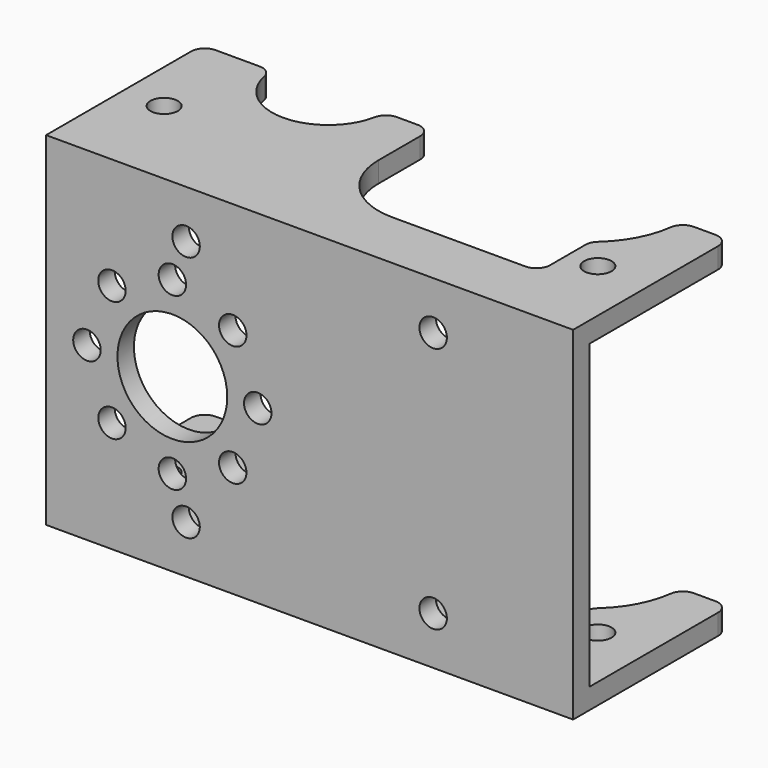
from build123d import *

# Parameters (mm, degrees)
F0_W     = 38.4
F0_H     = 28.4
F0_R     = 1
F0_R_2   = 4.1
F1_DEPTH = 1.5
F2_W     = 38.4
F2_H     = 1.5
F3_DEPTH = 22
F6_W     = 38.4
F6_H     = 14.2
F7_DEPTH = 25.001
F8_R     = 1
F8_R_2   = 4
F9_DEPTH = 1.5
F10_R    = 1


with BuildPart() as f1:
    # F0 (on Top) → F1 (new body)
    with BuildSketch(Plane.XY):
        Rectangle(F0_W, F0_H)
        with Locations((-16.2, -7.2)):
            Circle(F0_R, mode=Mode.SUBTRACT)
        with Locations((15.4, -7.2)):
            Circle(F0_R, mode=Mode.SUBTRACT)
        with Locations((-10, 0)):
            Circle(F0_R_2, mode=Mode.SUBTRACT)
        with Locations((-16.2, 7.2)):
            Circle(F0_R, mode=Mode.SUBTRACT)
        with BuildLine():
            ThreePointArc((-2.5, 4.8), (-1.0355339059, 8.3355339059), (2.5, 9.8))
            Line((2.5, 9.8), (12.2, 9.8))
            ThreePointArc((12.2, 9.8), (12.9071067812, 9.5071067812), (13.2, 8.8))
            Line((13.2, 8.8), (13.2, 5.5901699437))
            ThreePointArc((13.2, 5.5901699437), (13.2871290708, 5.1819216533), (13.5333333333, 4.8448139512))
            ThreePointArc((13.5333333333, 4.8448139512), (15.7, 0), (13.5333333333, -4.8448139512))
            ThreePointArc((13.5333333333, -4.8448139512), (13.2871290708, -5.1819216533), (13.2, -5.5901699437))
            Line((13.2, -5.5901699437), (13.2, -8.8))
            ThreePointArc((13.2, -8.8), (12.9071067812, -9.5071067812), (12.2, -9.8))
            Line((12.2, -9.8), (2.5, -9.8))
            ThreePointArc((2.5, -9.8), (-1.0355339059, -8.3355339059), (-2.5, -4.8))
            Line((-2.5, -4.8), (-2.5, 4.8))
        make_face(mode=Mode.SUBTRACT)
        with Locations((15.4, 7.2)):
            Circle(F0_R, mode=Mode.SUBTRACT)
    extrude(amount=F1_DEPTH)

    # F2 (on face) → F3 (join)
    with BuildSketch(Plane(origin=(0, 0, 0), x_dir=(1, 0, 0), z_dir=(0, 0, -1))):
        with Locations((0, 13.45)):
            Rectangle(F2_W, F2_H)
    extrude(amount=F3_DEPTH)

    # F5: F1 across plane


with BuildPart() as f1_1:
    add(f1.part)
    add(f1.part.mirror(Plane.XY.offset(-11)))

    # F6 (on face) → F7 (cut, through all)
    with BuildSketch(Plane(origin=(0, 0, -23.5), x_dir=(1, 0, 0), z_dir=(0, 0, -1))):
        with Locations((0, -7.1)):
            Rectangle(F6_W, F6_H)
    extrude(amount=-F7_DEPTH, mode=Mode.SUBTRACT)

    # F8 (on face) → F9 (cut, through all)
    with BuildSketch(Plane.XZ.offset(14.2)):
        with Locations((9, -2)):
            Circle(F8_R)
        with Locations((-9, -2)):
            Circle(F8_R)
        with Locations((-9, -20)):
            Circle(F8_R)
        with Locations((9, -20)):
            Circle(F8_R)
        with Locations((-10, -11)):
            Circle(F8_R_2)
        with Locations((-5.6, -6.6)):
            Circle(F8_R)
        with Locations((-10, -4.7774603256)):
            Circle(F8_R)
        with Locations((-14.4, -6.6)):
            Circle(F8_R)
        with Locations((-16.2225396744, -11)):
            Circle(F8_R)
        with Locations((-14.4, -15.4)):
            Circle(F8_R)
        with Locations((-10, -17.2225396744)):
            Circle(F8_R)
        with Locations((-5.6, -15.4)):
            Circle(F8_R)
        with Locations((-3.7774603256, -11)):
            Circle(F8_R)
    extrude(amount=-F9_DEPTH, mode=Mode.SUBTRACT)

    # F10
    f10_edges = [f1_1.edges().sort_by_distance(p)[0] for p in [
        (-19.2, 0, -22.75),
        (-19.2, 0, 0.75),
        (-5.9, 0, 0.75),
        (-14.1, 0, 0.75),
        (-5.9, 0, -22.75),
        (-14.1, 0, -22.75),
        (-2.5, 0, -22.75),
        (15.7, 0, -22.75),
        (15.7, 0, 0.75),
        (19.2, 0, -22.75),
        (19.2, 0, 0.75),
        (-2.5, 0, 0.75),
    ]]
    fillet(f10_edges, radius=F10_R)


solid = f1_1.part
